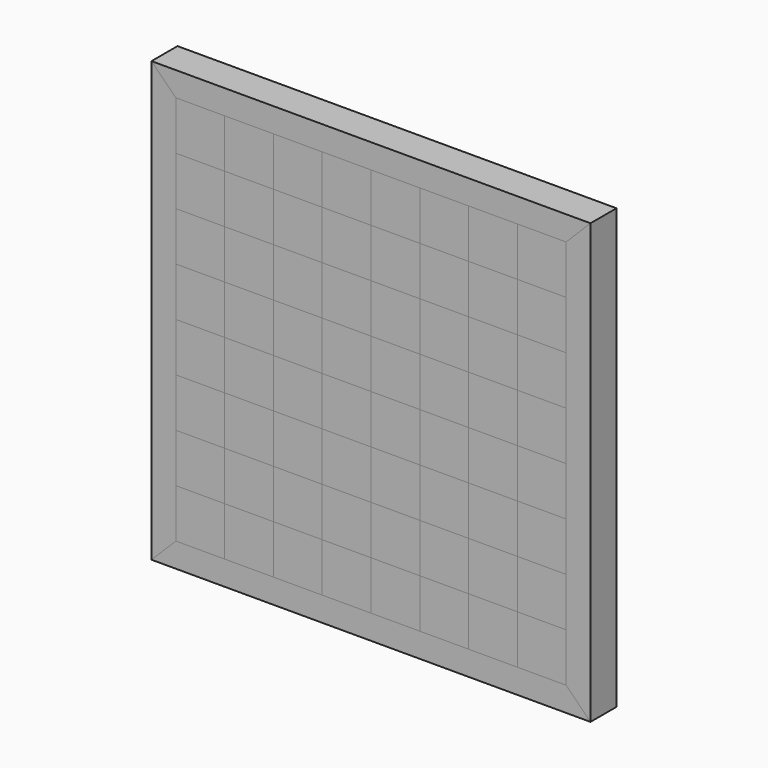
from build123d import *

# Parameters (mm, degrees)
F1_DEPTH  = 25.4
F2_DEPTH  = 25.4
F3_DEPTH  = 25.4
F4_DEPTH  = 25.4
F0_W      = 38.1
F0_H      = 38.1
F5_DEPTH  = 25.4
F6_DEPTH  = 25.4
F7_DEPTH  = 25.4
F8_DEPTH  = 25.4
F9_DEPTH  = 25.4
F10_DEPTH = 25.4
F11_DEPTH = 25.4
F12_DEPTH = 25.4
F13_DEPTH = 25.4
F14_DEPTH = 25.4
F15_DEPTH = 25.4
F16_DEPTH = 25.4
F17_DEPTH = 25.4
F18_DEPTH = 25.4
F19_DEPTH = 25.4
F20_DEPTH = 25.4
F21_DEPTH = 25.4
F22_DEPTH = 25.4
F23_DEPTH = 25.4
F24_DEPTH = 25.4
F25_DEPTH = 25.4
F26_DEPTH = 25.4
F27_DEPTH = 25.4
F28_DEPTH = 25.4
F29_DEPTH = 25.4
F30_DEPTH = 25.4
F31_DEPTH = 25.4
F32_DEPTH = 25.4
F33_DEPTH = 25.4


with BuildPart() as f1:
    # F0 (on Front) → F1 (new body)
    with BuildSketch(Plane.XZ):
        Polygon((152.4, 152.4), (171.45, 171.45), (-171.45, 171.45), (-152.4, 152.4), (-114.3, 152.4), (-76.2, 152.4), (-38.1, 152.4), (0, 152.4), (38.1, 152.4), (76.2, 152.4), (114.3, 152.4), align=None)
    extrude(amount=F1_DEPTH)


with BuildPart() as f2:
    # F0 (on Front) → F2 (new body)
    with BuildSketch(Plane.XZ):
        Polygon((-171.45, 171.45), (-171.45, -171.45), (-152.4, -152.4), (-152.4, -114.3), (-152.4, -76.2), (-152.4, -38.1), (-152.4, 0), (-152.4, 38.1), (-152.4, 76.2), (-152.4, 114.3), (-152.4, 152.4), align=None)
    extrude(amount=F2_DEPTH)


with BuildPart() as f3:
    # F0 (on Front) → F3 (new body)
    with BuildSketch(Plane.XZ):
        Polygon((152.4, -152.4), (171.45, -171.45), (171.45, 171.45), (152.4, 152.4), (152.4, 114.3), (152.4, 76.2), (152.4, 38.1), (152.4, 0), (152.4, -38.1), (152.4, -76.2), (152.4, -114.3), align=None)
    extrude(amount=F3_DEPTH)


with BuildPart() as f4:
    # F0 (on Front) → F4 (new body)
    with BuildSketch(Plane.XZ):
        Polygon((-171.45, -171.45), (171.45, -171.45), (152.4, -152.4), (114.3, -152.4), (76.2, -152.4), (38.1, -152.4), (0, -152.4), (-38.1, -152.4), (-76.2, -152.4), (-114.3, -152.4), (-152.4, -152.4), align=None)
    extrude(amount=F4_DEPTH)


with BuildPart() as f5:
    # F0 (on Front) → F5 (new body)
    with BuildSketch(Plane.XZ):
        with Locations((-133.35, 133.35)):
            Rectangle(F0_W, F0_H)
    extrude(amount=F5_DEPTH)


with BuildPart() as f6:
    # F0 (on Front) → F6 (new body)
    with BuildSketch(Plane.XZ):
        with Locations((-133.35, 95.25)):
            Rectangle(F0_W, F0_H)
    extrude(amount=F6_DEPTH)


with BuildPart() as f7:
    # F0 (on Front) → F7 (new body)
    with BuildSketch(Plane.XZ):
        with Locations((-133.35, 57.15)):
            Rectangle(F0_W, F0_H)
    extrude(amount=F7_DEPTH)


with BuildPart() as f8:
    # F0 (on Front) → F8 (new body)
    with BuildSketch(Plane.XZ):
        with Locations((-133.35, 19.05)):
            Rectangle(F0_W, F0_H)
    extrude(amount=F8_DEPTH)


with BuildPart() as f9:
    # F0 (on Front) → F9 (new body)
    with BuildSketch(Plane.XZ):
        with Locations((-133.35, -19.05)):
            Rectangle(F0_W, F0_H)
    extrude(amount=F9_DEPTH)


with BuildPart() as f10:
    # F0 (on Front) → F10 (new body)
    with BuildSketch(Plane.XZ):
        with Locations((-133.35, -57.15)):
            Rectangle(F0_W, F0_H)
    extrude(amount=F10_DEPTH)


with BuildPart() as f11:
    # F0 (on Front) → F11 (new body)
    with BuildSketch(Plane.XZ):
        with Locations((-133.35, -95.25)):
            Rectangle(F0_W, F0_H)
    extrude(amount=F11_DEPTH)


with BuildPart() as f12:
    # F0 (on Front) → F12 (new body)
    with BuildSketch(Plane.XZ):
        with Locations((-133.35, -133.35)):
            Rectangle(F0_W, F0_H)
    extrude(amount=F12_DEPTH)


with BuildPart() as f13:
    # F0 (on Front) → F13 (new body)
    with BuildSketch(Plane.XZ):
        with Locations((-95.25, 133.35)):
            Rectangle(F0_W, F0_H)
    extrude(amount=F13_DEPTH)


with BuildPart() as f14:
    # F0 (on Front) → F14 (new body)
    with BuildSketch(Plane.XZ):
        with Locations((-57.15, 133.35)):
            Rectangle(F0_W, F0_H)
    extrude(amount=F14_DEPTH)


with BuildPart() as f15:
    # F0 (on Front) → F15 (new body)
    with BuildSketch(Plane.XZ):
        with Locations((-19.05, 133.35)):
            Rectangle(F0_W, F0_H)
    extrude(amount=F15_DEPTH)


with BuildPart() as f16:
    # F0 (on Front) → F16 (new body)
    with BuildSketch(Plane.XZ):
        with Locations((19.05, 133.35)):
            Rectangle(F0_W, F0_H)
    extrude(amount=F16_DEPTH)


with BuildPart() as f17:
    # F0 (on Front) → F17 (new body)
    with BuildSketch(Plane.XZ):
        with Locations((57.15, 133.35)):
            Rectangle(F0_W, F0_H)
    extrude(amount=F17_DEPTH)


with BuildPart() as f18:
    # F0 (on Front) → F18 (new body)
    with BuildSketch(Plane.XZ):
        with Locations((95.25, 133.35)):
            Rectangle(F0_W, F0_H)
    extrude(amount=F18_DEPTH)


with BuildPart() as f19:
    # F0 (on Front) → F19 (new body)
    with BuildSketch(Plane.XZ):
        with Locations((133.35, 133.35)):
            Rectangle(F0_W, F0_H)
    extrude(amount=F19_DEPTH)


with BuildPart() as f20:
    # F0 (on Front) → F20 (new body)
    with BuildSketch(Plane.XZ):
        with Locations((-95.25, 95.25)):
            Rectangle(F0_W, F0_H)
    extrude(amount=F20_DEPTH)


with BuildPart() as f20b:
    # F0 (on Front) → F20, piece 2 (new body)
    with BuildSketch(Plane.XZ):
        with Locations((-57.15, 57.15)):
            Rectangle(F0_W, F0_H)
    extrude(amount=F20_DEPTH)


with BuildPart() as f20c:
    # F0 (on Front) → F20, piece 3 (new body)
    with BuildSketch(Plane.XZ):
        with Locations((-19.05, 19.05)):
            Rectangle(F0_W, F0_H)
    extrude(amount=F20_DEPTH)


with BuildPart() as f20d:
    # F0 (on Front) → F20, piece 4 (new body)
    with BuildSketch(Plane.XZ):
        with Locations((19.05, -19.05)):
            Rectangle(F0_W, F0_H)
    extrude(amount=F20_DEPTH)


with BuildPart() as f21:
    # F0 (on Front) → F21 (new body)
    with BuildSketch(Plane.XZ):
        with Locations((57.15, -57.15)):
            Rectangle(F0_W, F0_H)
    extrude(amount=F21_DEPTH)


with BuildPart() as f21b:
    # F0 (on Front) → F21, piece 2 (new body)
    with BuildSketch(Plane.XZ):
        with Locations((95.25, -95.25)):
            Rectangle(F0_W, F0_H)
    extrude(amount=F21_DEPTH)


with BuildPart() as f21c:
    # F0 (on Front) → F21, piece 3 (new body)
    with BuildSketch(Plane.XZ):
        with Locations((133.35, -133.35)):
            Rectangle(F0_W, F0_H)
    extrude(amount=F21_DEPTH)


with BuildPart() as f22:
    # F0 (on Front) → F22 (new body)
    with BuildSketch(Plane.XZ):
        with Locations((-95.25, 57.15)):
            Rectangle(F0_W, F0_H)
    extrude(amount=F22_DEPTH)


with BuildPart() as f22b:
    # F0 (on Front) → F22, piece 2 (new body)
    with BuildSketch(Plane.XZ):
        with Locations((-57.15, 19.05)):
            Rectangle(F0_W, F0_H)
    extrude(amount=F22_DEPTH)


with BuildPart() as f22c:
    # F0 (on Front) → F22, piece 3 (new body)
    with BuildSketch(Plane.XZ):
        with Locations((-19.05, -19.05)):
            Rectangle(F0_W, F0_H)
    extrude(amount=F22_DEPTH)


with BuildPart() as f22d:
    # F0 (on Front) → F22, piece 4 (new body)
    with BuildSketch(Plane.XZ):
        with Locations((19.05, -57.15)):
            Rectangle(F0_W, F0_H)
    extrude(amount=F22_DEPTH)


with BuildPart() as f22e:
    # F0 (on Front) → F22, piece 5 (new body)
    with BuildSketch(Plane.XZ):
        with Locations((57.15, -95.25)):
            Rectangle(F0_W, F0_H)
    extrude(amount=F22_DEPTH)


with BuildPart() as f22f:
    # F0 (on Front) → F22, piece 6 (new body)
    with BuildSketch(Plane.XZ):
        with Locations((95.25, -133.35)):
            Rectangle(F0_W, F0_H)
    extrude(amount=F22_DEPTH)


with BuildPart() as f23:
    # F0 (on Front) → F23 (new body)
    with BuildSketch(Plane.XZ):
        with Locations((-95.25, 19.05)):
            Rectangle(F0_W, F0_H)
    extrude(amount=F23_DEPTH)


with BuildPart() as f23b:
    # F0 (on Front) → F23, piece 2 (new body)
    with BuildSketch(Plane.XZ):
        with Locations((-57.15, -19.05)):
            Rectangle(F0_W, F0_H)
    extrude(amount=F23_DEPTH)


with BuildPart() as f23c:
    # F0 (on Front) → F23, piece 3 (new body)
    with BuildSketch(Plane.XZ):
        with Locations((-19.05, -57.15)):
            Rectangle(F0_W, F0_H)
    extrude(amount=F23_DEPTH)


with BuildPart() as f23d:
    # F0 (on Front) → F23, piece 4 (new body)
    with BuildSketch(Plane.XZ):
        with Locations((19.05, -95.25)):
            Rectangle(F0_W, F0_H)
    extrude(amount=F23_DEPTH)


with BuildPart() as f23e:
    # F0 (on Front) → F23, piece 5 (new body)
    with BuildSketch(Plane.XZ):
        with Locations((57.15, -133.35)):
            Rectangle(F0_W, F0_H)
    extrude(amount=F23_DEPTH)


with BuildPart() as f24:
    # F0 (on Front) → F24 (new body)
    with BuildSketch(Plane.XZ):
        with Locations((-95.25, -19.05)):
            Rectangle(F0_W, F0_H)
    extrude(amount=F24_DEPTH)


with BuildPart() as f24b:
    # F0 (on Front) → F24, piece 2 (new body)
    with BuildSketch(Plane.XZ):
        with Locations((-57.15, -57.15)):
            Rectangle(F0_W, F0_H)
    extrude(amount=F24_DEPTH)


with BuildPart() as f24c:
    # F0 (on Front) → F24, piece 3 (new body)
    with BuildSketch(Plane.XZ):
        with Locations((-19.05, -95.25)):
            Rectangle(F0_W, F0_H)
    extrude(amount=F24_DEPTH)


with BuildPart() as f24d:
    # F0 (on Front) → F24, piece 4 (new body)
    with BuildSketch(Plane.XZ):
        with Locations((19.05, -133.35)):
            Rectangle(F0_W, F0_H)
    extrude(amount=F24_DEPTH)


with BuildPart() as f25:
    # F0 (on Front) → F25 (new body)
    with BuildSketch(Plane.XZ):
        with Locations((-95.25, -57.15)):
            Rectangle(F0_W, F0_H)
    extrude(amount=F25_DEPTH)


with BuildPart() as f25b:
    # F0 (on Front) → F25, piece 2 (new body)
    with BuildSketch(Plane.XZ):
        with Locations((-57.15, -95.25)):
            Rectangle(F0_W, F0_H)
    extrude(amount=F25_DEPTH)


with BuildPart() as f25c:
    # F0 (on Front) → F25, piece 3 (new body)
    with BuildSketch(Plane.XZ):
        with Locations((-19.05, -133.35)):
            Rectangle(F0_W, F0_H)
    extrude(amount=F25_DEPTH)


with BuildPart() as f26:
    # F0 (on Front) → F26 (new body)
    with BuildSketch(Plane.XZ):
        with Locations((-95.25, -95.25)):
            Rectangle(F0_W, F0_H)
    extrude(amount=F26_DEPTH)


with BuildPart() as f26b:
    # F0 (on Front) → F26, piece 2 (new body)
    with BuildSketch(Plane.XZ):
        with Locations((-57.15, -133.35)):
            Rectangle(F0_W, F0_H)
    extrude(amount=F26_DEPTH)


with BuildPart() as f27:
    # F0 (on Front) → F27 (new body)
    with BuildSketch(Plane.XZ):
        with Locations((-95.25, -133.35)):
            Rectangle(F0_W, F0_H)
    extrude(amount=F27_DEPTH)


with BuildPart() as f28:
    # F0 (on Front) → F28 (new body)
    with BuildSketch(Plane.XZ):
        with Locations((-57.15, 95.25)):
            Rectangle(F0_W, F0_H)
    extrude(amount=F28_DEPTH)


with BuildPart() as f28b:
    # F0 (on Front) → F28, piece 2 (new body)
    with BuildSketch(Plane.XZ):
        with Locations((-19.05, 57.15)):
            Rectangle(F0_W, F0_H)
    extrude(amount=F28_DEPTH)


with BuildPart() as f28c:
    # F0 (on Front) → F28, piece 3 (new body)
    with BuildSketch(Plane.XZ):
        with Locations((19.05, 19.05)):
            Rectangle(F0_W, F0_H)
    extrude(amount=F28_DEPTH)


with BuildPart() as f28d:
    # F0 (on Front) → F28, piece 4 (new body)
    with BuildSketch(Plane.XZ):
        with Locations((57.15, -19.05)):
            Rectangle(F0_W, F0_H)
    extrude(amount=F28_DEPTH)


with BuildPart() as f28e:
    # F0 (on Front) → F28, piece 5 (new body)
    with BuildSketch(Plane.XZ):
        with Locations((95.25, -57.15)):
            Rectangle(F0_W, F0_H)
    extrude(amount=F28_DEPTH)


with BuildPart() as f28f:
    # F0 (on Front) → F28, piece 6 (new body)
    with BuildSketch(Plane.XZ):
        with Locations((133.35, -95.25)):
            Rectangle(F0_W, F0_H)
    extrude(amount=F28_DEPTH)


with BuildPart() as f29:
    # F0 (on Front) → F29 (new body)
    with BuildSketch(Plane.XZ):
        with Locations((-19.05, 95.25)):
            Rectangle(F0_W, F0_H)
    extrude(amount=F29_DEPTH)


with BuildPart() as f29b:
    # F0 (on Front) → F29, piece 2 (new body)
    with BuildSketch(Plane.XZ):
        with Locations((19.05, 57.15)):
            Rectangle(F0_W, F0_H)
    extrude(amount=F29_DEPTH)


with BuildPart() as f29c:
    # F0 (on Front) → F29, piece 3 (new body)
    with BuildSketch(Plane.XZ):
        with Locations((57.15, 19.05)):
            Rectangle(F0_W, F0_H)
    extrude(amount=F29_DEPTH)


with BuildPart() as f29d:
    # F0 (on Front) → F29, piece 4 (new body)
    with BuildSketch(Plane.XZ):
        with Locations((95.25, -19.05)):
            Rectangle(F0_W, F0_H)
    extrude(amount=F29_DEPTH)


with BuildPart() as f29e:
    # F0 (on Front) → F29, piece 5 (new body)
    with BuildSketch(Plane.XZ):
        with Locations((133.35, -57.15)):
            Rectangle(F0_W, F0_H)
    extrude(amount=F29_DEPTH)


with BuildPart() as f30:
    # F0 (on Front) → F30 (new body)
    with BuildSketch(Plane.XZ):
        with Locations((19.05, 95.25)):
            Rectangle(F0_W, F0_H)
    extrude(amount=F30_DEPTH)


with BuildPart() as f30b:
    # F0 (on Front) → F30, piece 2 (new body)
    with BuildSketch(Plane.XZ):
        with Locations((57.15, 57.15)):
            Rectangle(F0_W, F0_H)
    extrude(amount=F30_DEPTH)


with BuildPart() as f30c:
    # F0 (on Front) → F30, piece 3 (new body)
    with BuildSketch(Plane.XZ):
        with Locations((95.25, 19.05)):
            Rectangle(F0_W, F0_H)
    extrude(amount=F30_DEPTH)


with BuildPart() as f30d:
    # F0 (on Front) → F30, piece 4 (new body)
    with BuildSketch(Plane.XZ):
        with Locations((133.35, -19.05)):
            Rectangle(F0_W, F0_H)
    extrude(amount=F30_DEPTH)


with BuildPart() as f31:
    # F0 (on Front) → F31 (new body)
    with BuildSketch(Plane.XZ):
        with Locations((57.15, 95.25)):
            Rectangle(F0_W, F0_H)
    extrude(amount=F31_DEPTH)


with BuildPart() as f31b:
    # F0 (on Front) → F31, piece 2 (new body)
    with BuildSketch(Plane.XZ):
        with Locations((95.25, 57.15)):
            Rectangle(F0_W, F0_H)
    extrude(amount=F31_DEPTH)


with BuildPart() as f31c:
    # F0 (on Front) → F31, piece 3 (new body)
    with BuildSketch(Plane.XZ):
        with Locations((133.35, 19.05)):
            Rectangle(F0_W, F0_H)
    extrude(amount=F31_DEPTH)


with BuildPart() as f32:
    # F0 (on Front) → F32 (new body)
    with BuildSketch(Plane.XZ):
        with Locations((95.25, 95.25)):
            Rectangle(F0_W, F0_H)
    extrude(amount=F32_DEPTH)


with BuildPart() as f32b:
    # F0 (on Front) → F32, piece 2 (new body)
    with BuildSketch(Plane.XZ):
        with Locations((133.35, 57.15)):
            Rectangle(F0_W, F0_H)
    extrude(amount=F32_DEPTH)


with BuildPart() as f33:
    # F0 (on Front) → F33 (new body)
    with BuildSketch(Plane.XZ):
        with Locations((133.35, 95.25)):
            Rectangle(F0_W, F0_H)
    extrude(amount=F33_DEPTH)


solid = Compound([f1.part, f2.part, f3.part, f4.part, f5.part, f6.part, f7.part, f8.part, f9.part, f10.part, f11.part, f12.part, f13.part, f14.part, f15.part, f16.part, f17.part, f18.part, f19.part, f20.part, f20b.part, f20c.part, f20d.part, f21.part, f21b.part, f21c.part, f22.part, f22b.part, f22c.part, f22d.part, f22e.part, f22f.part, f23.part, f23b.part, f23c.part, f23d.part, f23e.part, f24.part, f24b.part, f24c.part, f24d.part, f25.part, f25b.part, f25c.part, f26.part, f26b.part, f27.part, f28.part, f28b.part, f28c.part, f28d.part, f28e.part, f28f.part, f29.part, f29b.part, f29c.part, f29d.part, f29e.part, f30.part, f30b.part, f30c.part, f30d.part, f31.part, f31b.part, f31c.part, f32.part, f32b.part, f33.part])
